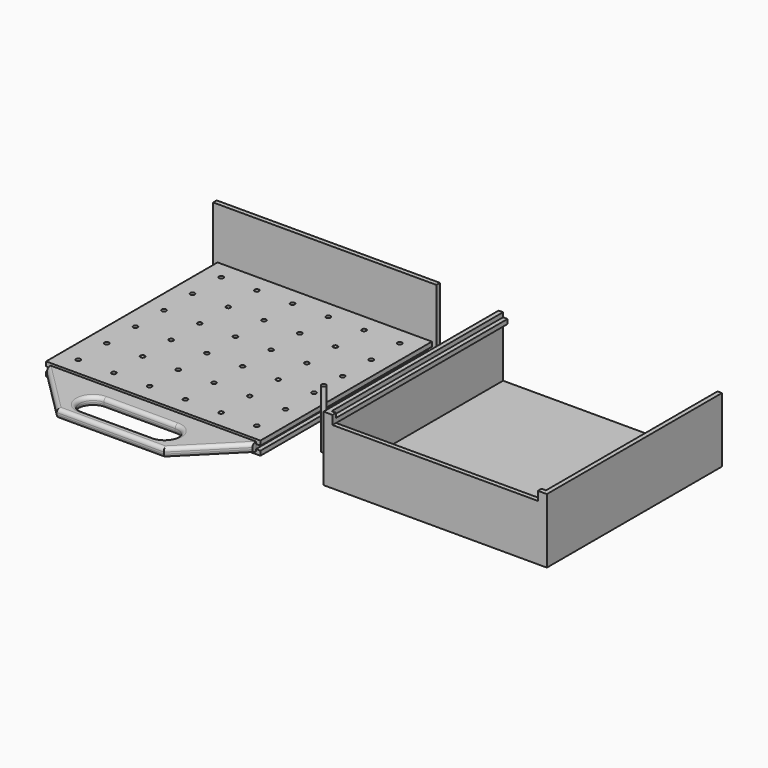
from build123d import *

# Parameters (mm, degrees)
F0_W      = 304.8
F0_H      = 304.8
F1_DEPTH  = 19.05
F2_W      = 6.35
F2_H      = 6.35
F2_W_2    = 6.250791869
F3_DEPTH  = 304.801
F4_DEPTH  = 76.2
F6_DEPTH  = 25.4
F7_R      = 5.08
F8_R      = 5.08
F9_R      = 3.175
F10_DEPTH = 12.7
F11_R     = 3.175
F12_DEPTH = 82.55
F13_W     = 304.8
F13_H     = 73.025
F13_W_2   = 6.35
F13_H_2   = 6.35
F13_W_3   = 6.250791869
F14_DEPTH = 6.35
F16_DEPTH = 6.35
F18_DEPTH = 6.35
F19_W     = 317.5
F19_H     = 317.5
F20_DEPTH = 92.075
F21_T     = -6.35
F23_DEPTH = 92.076
F22_W     = 304.8
F22_H     = 6.35
F24_DEPTH = 12.7
F26_DEPTH = 6.35
F28_DEPTH = 6.35
F29_W     = 6.35
F29_H     = 6.35
F30_DEPTH = 6.35
F31_W     = 6.35
F31_H     = 6.35
F32_DEPTH = 6.35


with BuildPart() as f1:
    # F0 (on Top) → F1 (new body)
    with BuildSketch(Plane.XY):
        with Locations((4.9139459755, -0.0314414501)):
            Rectangle(F0_W, F0_H)
    extrude(amount=F1_DEPTH)

    # F2 (on face) → F3 (cut, through all)
    with BuildSketch(Plane.XZ.offset(152.4314414501)):
        with Locations((154.1389459755, 9.525)):
            Rectangle(F2_W, F2_H)
        with Locations((-144.36065809, 9.525)):
            Rectangle(F2_W_2, F2_H)
    extrude(amount=-F3_DEPTH, mode=Mode.SUBTRACT)

    # F2 (on face) → F4 (join)
    with BuildSketch(Plane.XZ.offset(152.4314414501)):
        Polygon((-141.2352621555, 15.875), (-141.2352621555, 12.7), (-141.1360540245, 12.7), (-141.1360540245, 6.35), (-141.2352621555, 6.35), (-141.2352621555, 3.175), (150.8647378445, 3.175), (150.8647378445, 15.875), align=None)
    extrude(amount=F4_DEPTH)

    # F5 (on face) → F6 (cut)
    with BuildSketch(Plane.XY.offset(15.875)):
        with BuildLine():
            ThreePointArc((-45.9852621555, -176.7466536283), (-65.0352621555, -195.7966536283), (-45.9852621555, -214.8466536283))
            Line((-45.9852621555, -214.8466536283), (55.6147378445, -214.8466536283))
            ThreePointArc((55.6147378445, -214.8466536283), (74.6647378445, -195.7966536283), (55.6147378445, -176.7466536283))
            Line((55.6147378445, -176.7466536283), (-45.9852621555, -176.7466536283))
        make_face()
        Polygon((150.8647378445, -158.7814414501), (81.0147378445, -228.6314414501), (150.8647378445, -228.6314414501), align=None)
        Polygon((-71.3852621555, -228.6314414501), (-141.2352621555, -158.7814414501), (-141.2352621555, -228.6314414501), align=None)
    extrude(amount=-F6_DEPTH, mode=Mode.SUBTRACT)

    # F7
    f7_edges = [f1.edges().sort_by_distance(p)[0] for p in [
        (-65.035262, -195.796654, 15.875),
        (4.814738, -176.746654, 15.875),
        (4.814738, -176.746654, 3.175),
        (-65.035262, -195.796654, 3.175),
        (74.664738, -195.796654, 3.175),
    ]]
    fillet(f7_edges, radius=F7_R)

    # F8
    f8_edges = [f1.edges().sort_by_distance(p)[0] for p in [
        (-106.310262, -193.706441, 15.875),
        (-106.310262, -193.706441, 3.175),
        (4.814738, -228.631441, 15.875),
        (4.814738, -228.631441, 3.175),
        (115.939738, -193.706441, 3.175),
        (115.939738, -193.706441, 15.875),
    ]]
    fillet(f8_edges, radius=F8_R)

    # F9 (on face) → F10 (cut)
    with BuildSketch(Plane.XY.offset(19.05)):
        with Locations((131.9139459755, 76.1685585499)):
            Circle(F9_R)
        with Locations((30.3139459755, -127.0314414501)):
            Circle(F9_R)
        with Locations((131.9139459755, -76.2314414501)):
            Circle(F9_R)
        with Locations((81.1139459755, -76.2314414501)):
            Circle(F9_R)
        with Locations((131.9139459755, 126.9685585499)):
            Circle(F9_R)
        with Locations((30.3139459755, -76.2314414501)):
            Circle(F9_R)
        with Locations((-20.4860540245, 25.3685585499)):
            Circle(F9_R)
        with Locations((-20.4860540245, -76.2314414501)):
            Circle(F9_R)
        with Locations((-20.4860540245, -25.4314414501)):
            Circle(F9_R)
        with Locations((-122.0860540245, -127.0314414501)):
            Circle(F9_R)
        with Locations((-122.0860540245, -76.2314414501)):
            Circle(F9_R)
        with Locations((-122.0860540245, -25.4314414501)):
            Circle(F9_R)
        with Locations((-122.0860540245, 25.3685585499)):
            Circle(F9_R)
        with Locations((-122.0860540245, 76.1685585499)):
            Circle(F9_R)
        with Locations((-122.0860540245, 126.9685585499)):
            Circle(F9_R)
        with Locations((30.3139459755, 76.1685585499)):
            Circle(F9_R)
        with Locations((-71.2860540245, -127.0314414501)):
            Circle(F9_R)
        with Locations((-71.2860540245, -76.2314414501)):
            Circle(F9_R)
        with Locations((-71.2860540245, -25.4314414501)):
            Circle(F9_R)
        with Locations((-71.2860540245, 25.3685585499)):
            Circle(F9_R)
        with Locations((-71.2860540245, 76.1685585499)):
            Circle(F9_R)
        with Locations((-71.2860540245, 126.9685585499)):
            Circle(F9_R)
        with Locations((-20.4860540245, -127.0314414501)):
            Circle(F9_R)
        with Locations((81.1139459755, -25.4314414501)):
            Circle(F9_R)
        with Locations((81.1139459755, 126.9685585499)):
            Circle(F9_R)
        with Locations((30.3139459755, -25.4314414501)):
            Circle(F9_R)
        with Locations((30.3139459755, 126.9685585499)):
            Circle(F9_R)
        with Locations((131.9139459755, -25.4314414501)):
            Circle(F9_R)
        with Locations((-20.4860540245, 76.1685585499)):
            Circle(F9_R)
        with Locations((81.1139459755, 25.3685585499)):
            Circle(F9_R)
        with Locations((131.9139459755, -127.0314414501)):
            Circle(F9_R)
        with Locations((30.3139459755, 25.3685585499)):
            Circle(F9_R)
        with Locations((81.1139459755, -127.0314414501)):
            Circle(F9_R)
        with Locations((131.9139459755, 25.3685585499)):
            Circle(F9_R)
        with Locations((-20.4860540245, 126.9685585499)):
            Circle(F9_R)
        with Locations((81.1139459755, 76.1685585499)):
            Circle(F9_R)
    extrude(amount=-F10_DEPTH, mode=Mode.SUBTRACT)

    # F13 (on face) → F14 (join)
    with BuildSketch(Plane(origin=(0, 152.3685585499, 0), x_dir=(-1, 0, 0), z_dir=(0, 1, 0))):
        with Locations((-4.9139459755, 55.5625)):
            Rectangle(F13_W, F13_H)
        Polygon((-157.3139459755, 6.35), (-157.3139459755, 0), (147.4860540245, 0), (147.4860540245, 6.35), (141.2352621555, 6.35), (141.2352621555, 12.7), (147.4860540245, 12.7), (147.4860540245, 19.05), (-157.3139459755, 19.05), (-157.3139459755, 12.7), (-150.9639459755, 12.7), (-150.9639459755, 6.35), align=None)
        with Locations((-154.1389459755, 9.525)):
            Rectangle(F13_W_2, F13_H_2)
        with Locations((144.36065809, 9.525)):
            Rectangle(F13_W_3, F13_H_2)
    extrude(amount=F14_DEPTH)

    # F15 (on face) → F16 (join)
    with BuildSketch(Plane.YZ.offset(157.3139459755)):
        Polygon((152.3685585499, 92.075), (152.3685585499, 19.05), (152.3685585499, 12.7), (152.3685585499, 6.35), (152.3685585499, 0), (158.7185585499, 0), (158.7185585499, 92.075), align=None)
    extrude(amount=F16_DEPTH)

    # F17 (on face) → F18 (join)
    with BuildSketch(Plane(origin=(-147.4860540245, 0, 0), x_dir=(0, -1, 0), z_dir=(-1, 0, 0))):
        Polygon((-152.3685585499, 12.7), (-152.3685585499, 19.05), (-152.3685585499, 92.075), (-158.7185585499, 92.075), (-158.7185585499, 0), (-152.3685585499, 0), (-152.3685585499, 6.35), align=None)
    extrude(amount=F18_DEPTH)


with BuildPart() as f12:
    # F11 (on Top) → F12 (new body)
    with BuildSketch(Plane.XY):
        with Locations((205.4325938225, -99.968470633)):
            Circle(F11_R)
    extrude(amount=F12_DEPTH)


with BuildPart() as f20:
    # F19 (on Top) → F20 (new body)
    with BuildSketch(Plane.XY):
        with Locations((414.9014675617, -5.0197219849)):
            Rectangle(F19_W, F19_H)
    extrude(amount=F20_DEPTH)

    # F21
    f21_openings = [f20.faces().sort_by_distance(p)[0] for p in [
        (414.901468, -5.019722, 92.075),
    ]]
    offset(amount=F21_T, openings=f21_openings)

    # F22 (on face) → F23 (cut, through all)
    with BuildSketch(Plane.XY.offset(92.075)):
        Polygon((256.1514675617, 147.3802780151), (262.5014675617, 147.3802780151), (567.3014675617, 147.3802780151), (573.6514675617, 147.3802780151), (573.6514675617, 153.7302780151), (256.1514675617, 153.7302780151), align=None)
    extrude(amount=-F23_DEPTH, mode=Mode.SUBTRACT)

    # F22 (on face) → F24 (cut)
    with BuildSketch(Plane.XY.offset(92.075)):
        with Locations((414.9014675617, -160.5947219849)):
            Rectangle(F22_W, F22_H)
    extrude(amount=-F24_DEPTH, mode=Mode.SUBTRACT)

    # F25 (on face) → F26 (join)
    with BuildSketch(Plane.YZ.offset(262.5014675617)):
        Polygon((147.3802780151, 85.725), (-163.7697219849, 85.725), (-163.7697219849, 79.375), (-157.4197219849, 79.375), (147.3802780151, 79.375), align=None)
    extrude(amount=F26_DEPTH)

    # F27 (on face) → F28 (join)
    with BuildSketch(Plane(origin=(567.3014675617, 0, 0), x_dir=(0, -1, 0), z_dir=(-1, 0, 0))):
        Polygon((163.7697219849, 85.725), (-147.3802780151, 85.725), (-147.3802780151, 79.375), (157.4197219849, 79.375), (163.7697219849, 79.375), align=None)
    extrude(amount=F28_DEPTH)

    # F29 (on face) → F30 (join)
    with BuildSketch(Plane.XY.offset(85.725)):
        with Locations((265.6764675617, -160.5947219849)):
            Rectangle(F29_W, F29_H)
    extrude(amount=F30_DEPTH)

    # F31 (on face) → F32 (join)
    with BuildSketch(Plane.XY.offset(85.725)):
        with Locations((564.1264675617, -160.5947219849)):
            Rectangle(F31_W, F31_H)
    extrude(amount=F32_DEPTH)


solid = Compound([f1.part, f12.part, f20.part])
